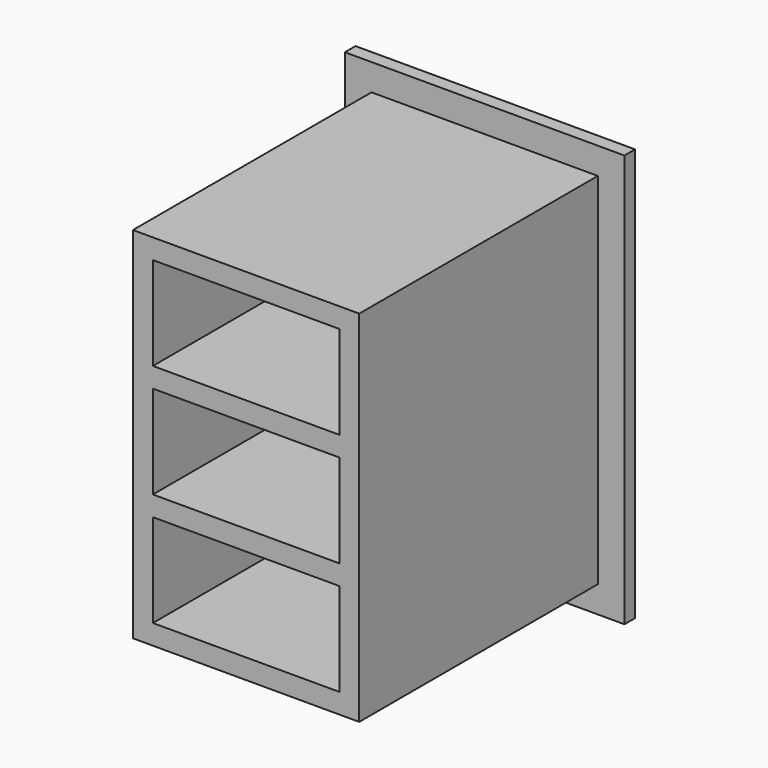
from build123d import *

# Parameters (mm, degrees)
F0_W     = 107.95
F0_H     = 171.45
F0_W_2   = 88.9
F0_H_2   = 44.45
F1_DEPTH = 139.7
F2_W     = 107.95
F2_H     = 171.45
F3_DEPTH = 2.54
F5_DEPTH = 6.35


with BuildPart() as f1:
    # F0 (on Front) → F1 (new body)
    with BuildSketch(Plane.XZ):
        with Locations((-54.33191, 13.475312)):
            Rectangle(F0_W, F0_H)
        with Locations((-54.33191, -40.499688)):
            Rectangle(F0_W_2, F0_H_2, mode=Mode.SUBTRACT)
        with Locations((-54.33191, 67.450312)):
            Rectangle(F0_W_2, F0_H_2, mode=Mode.SUBTRACT)
        with Locations((-54.33191, 13.475312)):
            Rectangle(F0_W_2, F0_H_2, mode=Mode.SUBTRACT)
    extrude(amount=F1_DEPTH)

    # F2 (on face) → F3 (join)
    with BuildSketch(Plane(origin=(0, 0, 0), x_dir=(-1, 0, 0), z_dir=(0, 1, 0))):
        with Locations((54.33191, 13.475312)):
            Rectangle(F2_W, F2_H)
    extrude(amount=F3_DEPTH)

    # F4 (on face) → F5 (join)
    with BuildSketch(Plane(origin=(0, 2.54, 0), x_dir=(-1, 0, 0), z_dir=(0, 1, 0))):
        Polygon((121.00691, 111.900312), (0.35691, 111.900312), (-12.34309, 111.900312), (-12.34309, 99.200312), (-12.34309, -84.949688), (108.30691, -84.949688), (121.00691, -84.949688), (121.00691, -72.249688), align=None)
    extrude(amount=F5_DEPTH)


solid = f1.part
